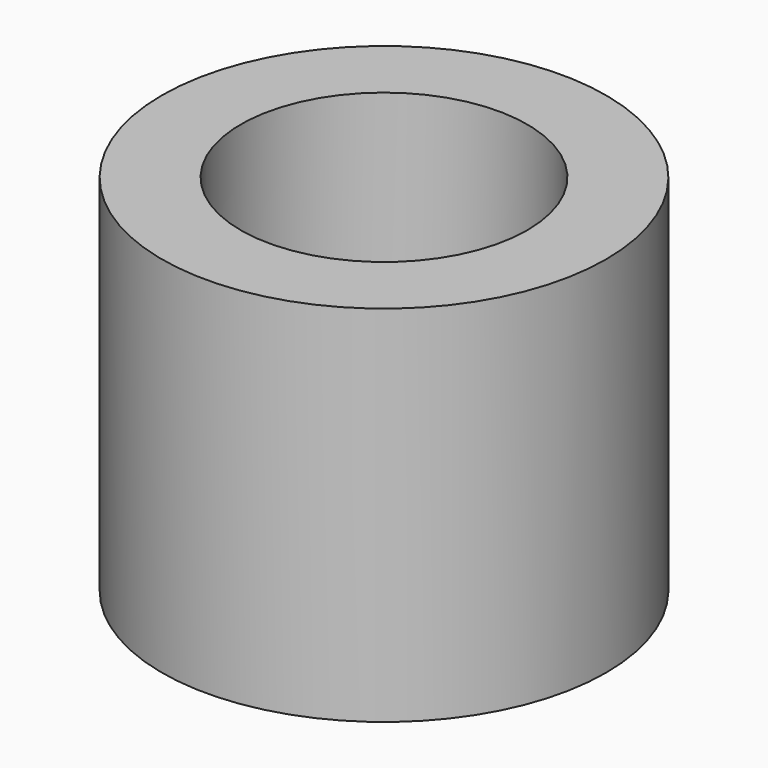
from build123d import *

# Parameters (mm, degrees)
SKETCH_R   = 7.75
SKETCH_R_2 = 5
PAD_DEPTH  = 12.7


with BuildPart() as part:
    # Sketch → Pad (new body)
    with BuildSketch(Plane.XY):
        Circle(SKETCH_R)
        Circle(SKETCH_R_2, mode=Mode.SUBTRACT)
    extrude(amount=PAD_DEPTH)


solid = part.part
